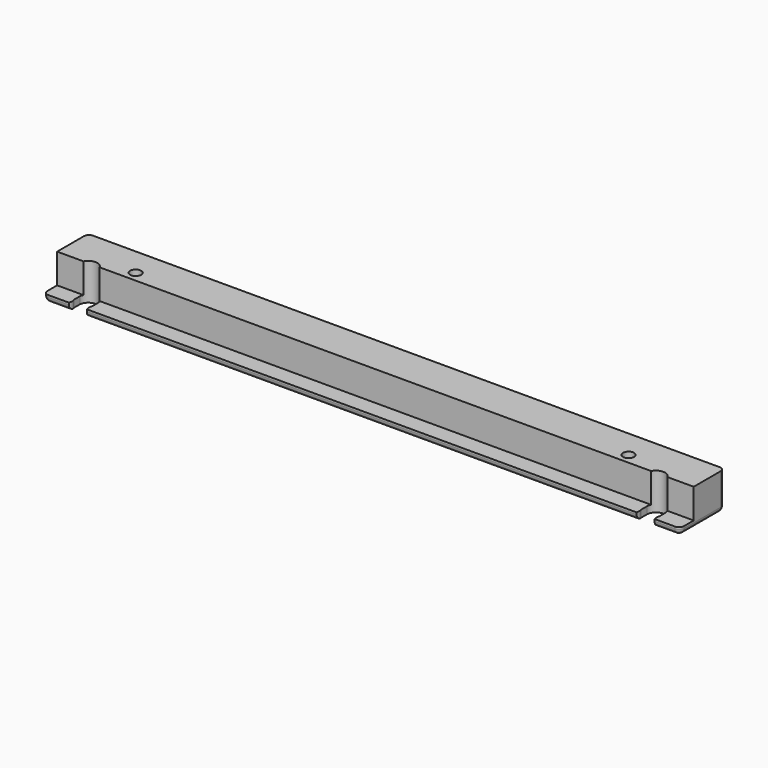
from build123d import *

# Parameters (mm, degrees)
BOX001_W        = 251.83
BOX001_H        = 6.77
BOX001_DEPTH    = 11.75
BOX_W           = 251.83
BOX_H           = 22.03
BOX_DEPTH       = 14.56
SKETCH_R        = 2.195
POCKET_DEPTH    = 14.561
POCKET001_DEPTH = 14.561
FILLET_R        = 2
FILLET001_R     = 2
FILLET002_R     = 2


with BuildPart() as cubo001:
    # Box001 → Box001 (new body)
    with BuildSketch(Plane.XY.offset(2.81)):
        with Locations((125.915, 3.385)):
            Rectangle(BOX001_W, BOX001_H)
    extrude(amount=BOX001_DEPTH)


with BuildPart() as fillet002:
    # Box → Box (new body)
    with BuildSketch(Plane.XY):
        with Locations((125.915, 11.015)):
            Rectangle(BOX_W, BOX_H)
    extrude(amount=BOX_DEPTH)

    # Cut: cut Cubo001
    add(cubo001.part, mode=Mode.SUBTRACT)

    # Sketch (on Face5 of Cut) → Pocket (cut, through all)
    with BuildSketch(Plane.XY.offset(14.56)):
        with Locations((27.795, 10.865)):
            Circle(SKETCH_R)
        with Locations((222.79, 10.865)):
            Circle(SKETCH_R)
    extrude(amount=-POCKET_DEPTH, mode=Mode.SUBTRACT)

    # Sketch001 (on Face7 of Pocket) → Pocket001 (cut, through all)
    with BuildSketch(Plane(origin=(0, 0, 0), x_dir=(1, 0, 0), z_dir=(0, 0, -1))):
        with BuildLine():
            Line((10.048096, -5.5), (10.048096, -2.5))
            ThreePointArc((10.048096, -2.5), (10.333563, -1.247868), (10.03, 0))
            Line((17.21, 0), (10.03, 0))
            ThreePointArc((17.21, 0), (16.906437, -1.247868), (17.191904, -2.5))
            Line((17.191904, -5.5), (17.191904, -2.5))
            ThreePointArc((10.048096, -5.5), (13.62, -8.73), (17.191904, -5.5))
        make_face()
        with BuildLine():
            ThreePointArc((234.62, -5.14), (238.21, -8.73), (241.8, -5.14))
            Line((241.8, -5.14), (241.8, -2.14))
            ThreePointArc((241.8, 0), (241.587489, -1.07), (241.8, -2.14))
            Line((241.8, 0), (234.62, 0))
            ThreePointArc((234.62, -2.14), (234.832511, -1.07), (234.62, 0))
            Line((234.62, -2.14), (234.62, -5.14))
        make_face()
    extrude(amount=-POCKET001_DEPTH, mode=Mode.SUBTRACT)

    # Fillet
    fillet_edges = [fillet002.edges().sort_by_distance(p)[0] for p in [
        (0, 0, 1.405),
        (0, 22.03, 7.28),
        (251.83, 22.03, 7.28),
        (251.83, 0, 1.405),
    ]]
    fillet(fillet_edges, radius=FILLET_R)

    # Fillet001
    fillet001_edges = [fillet002.edges().sort_by_distance(p)[0] for p in [
        (220.595, 10.865, 0),
        (25.6, 10.865, 0),
    ]]
    fillet(fillet001_edges, radius=FILLET001_R)

    # Fillet002
    fillet002_edges = [fillet002.edges().sort_by_distance(p)[0] for p in [
        (125.915, 22.03, 0),
        (0, 11.015, 0),
        (251.83, 11.015, 0),
        (6.015, 0, 0),
        (245.815, 0, 0),
        (125.915, 0, 0),
    ]]
    fillet(fillet002_edges, radius=FILLET002_R)


solid = fillet002.part
